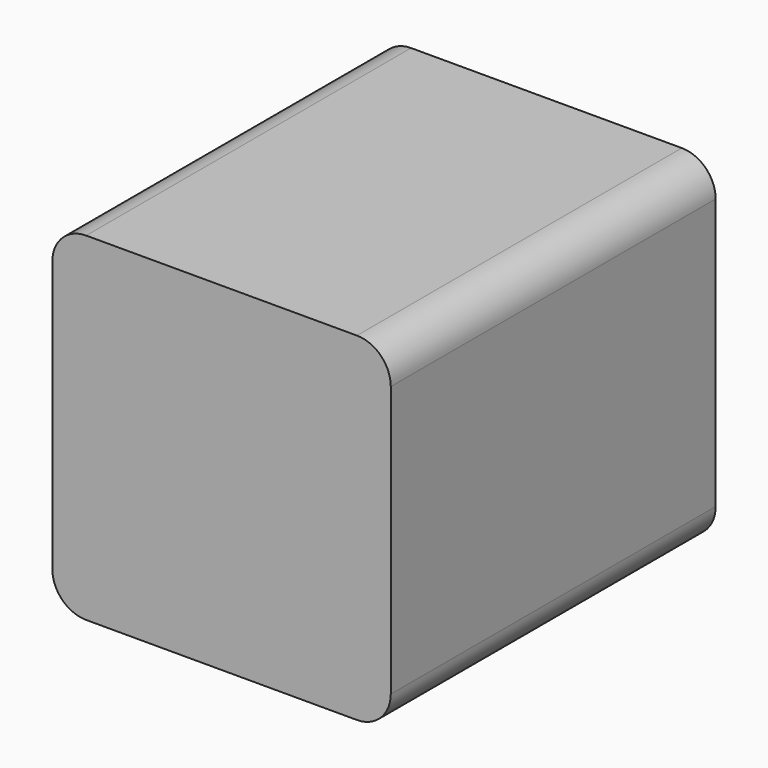
from build123d import *

# Parameters (mm, degrees)
F0_W     = 50
F0_H     = 50
F1_DEPTH = 60
F2_R     = 5
F3_R     = 5


with BuildPart() as f1:
    # F0 (on Front) → F1 (new body)
    with BuildSketch(Plane.XZ):
        with Locations((-102.569624, 15.888886)):
            Rectangle(F0_W, F0_H)
    extrude(amount=F1_DEPTH)

    # F2
    f2_edges = [f1.edges().sort_by_distance(p)[0] for p in [
        (-77.569624, -30, 40.888886),
    ]]
    fillet(f2_edges, radius=F2_R)

    # F3
    f3_edges = [f1.edges().sort_by_distance(p)[0] for p in [
        (-127.569624, -30, 40.888886),
        (-77.569624, -30, -9.111114),
        (-127.569624, -30, -9.111114),
    ]]
    fillet(f3_edges, radius=F3_R)


solid = f1.part
